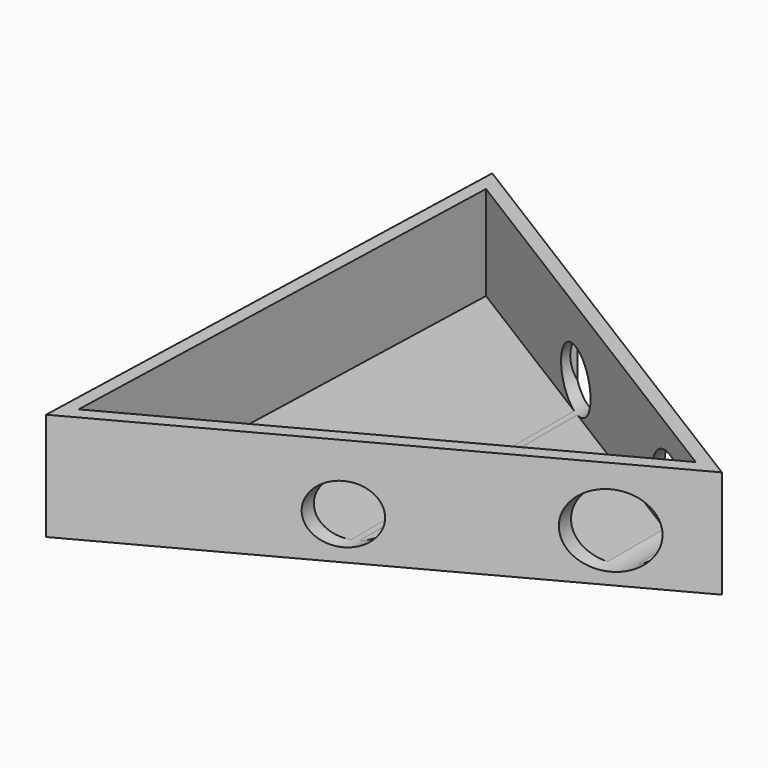
from build123d import *

# Parameters (mm, degrees)
F1_DEPTH = 8
F2_T     = -1
F3_R     = 2.170794
F3_R_2   = 2.696969
F4_DEPTH = 12.5


with BuildPart() as f1:
    # F0 (on Top) → F1 (new body)
    with BuildSketch(Plane.XY):
        Polygon((-12.137679, -19.559744), (23.008074, -0.731667), (-10.870395, 20.29141), align=None)
    extrude(amount=F1_DEPTH)

    # F2
    f2_openings = [f1.faces().sort_by_distance(p)[0] for p in [
        (0, 0, 8),
    ]]
    offset(amount=F2_T, openings=f2_openings)

    # F3 (on Front) → F4 (cut, symmetric)
    with BuildSketch(Plane.XZ):
        with Locations((3.323053, 3.15884)):
            Circle(F3_R)
        with Locations((17.222516, 3.580036)):
            Circle(F3_R_2)
    extrude(amount=F4_DEPTH, both=True, mode=Mode.SUBTRACT)


solid = f1.part
